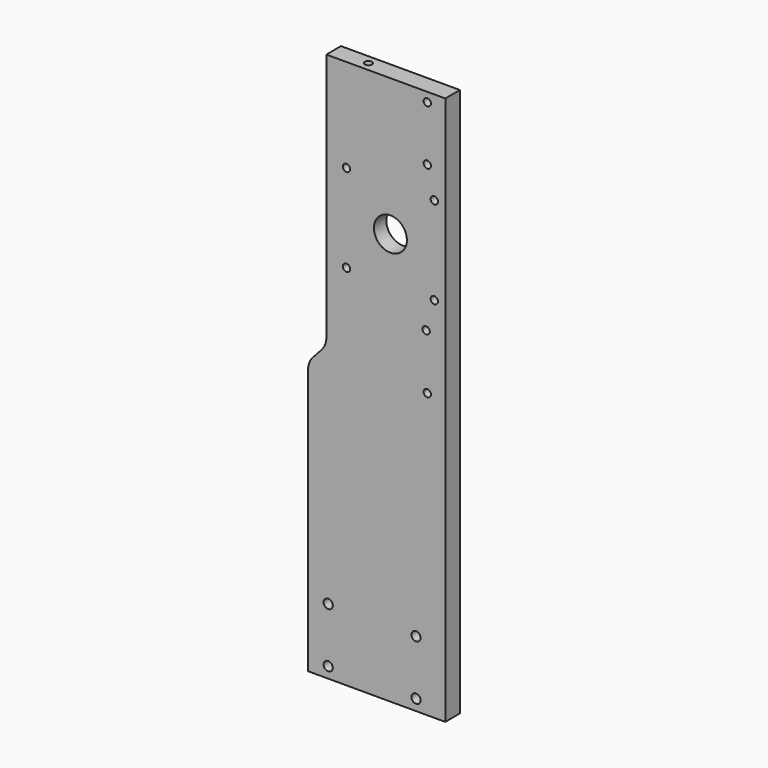
from build123d import *

# Parameters (mm, degrees)
F0_R     = 2.5
F0_R_2   = 2
F0_R_3   = 20
F0_R_4   = 9
F1_DEPTH = 10
F2_R     = 2
F3_DEPTH = 15
F4_DEPTH = 1.5


with BuildPart() as f1:
    # F0 (on Front) → F1 (new body)
    with BuildSketch(Plane.XZ):
        with BuildLine():
            Line((-70, 0), (0, 0))
            Line((0, 0), (0, 199.267949))
            ThreePointArc((0, 199.267949), (-3, 201), (0, 202.732051))
            Line((0, 202.732051), (0, 247.267949))
            ThreePointArc((0, 247.267949), (-3, 249), (0, 250.732051))
            Line((0, 250.732051), (0, 300))
            Line((0, 300), (-60, 300))
            Line((-60, 300), (-60, 163.85171))
            ThreePointArc((-60, 163.85171), (-60.668282, 160.257403), (-62.583808, 157.143498))
            Line((-62.583808, 157.143498), (-67.416192, 151.801108))
            ThreePointArc((-67.416192, 151.801108), (-69.331718, 148.687203), (-70, 145.092897))
            Line((-70, 145.092897), (-70, 0))
        make_face()
        with Locations((-59, 6)):
            Circle(F0_R, mode=Mode.SUBTRACT)
        with Locations((-59, 36)):
            Circle(F0_R, mode=Mode.SUBTRACT)
        with Locations((-11, 6)):
            Circle(F0_R, mode=Mode.SUBTRACT)
        with Locations((-11, 36)):
            Circle(F0_R, mode=Mode.SUBTRACT)
        with Locations((-49, 201)):
            Circle(F0_R_2, mode=Mode.SUBTRACT)
        with Locations((-49, 249)):
            Circle(F0_R_2, mode=Mode.SUBTRACT)
        with Locations((-4.837179, 155)):
            Circle(F0_R_2, mode=Mode.SUBTRACT)
        with Locations((-5.474639, 185)):
            Circle(F0_R_2, mode=Mode.SUBTRACT)
        with Locations((-25, 225)):
            Circle(F0_R_3, mode=Mode.SUBTRACT)
        with Locations((-4.837179, 265)):
            Circle(F0_R_2, mode=Mode.SUBTRACT)
        with Locations((-4.837179, 295)):
            Circle(F0_R_2, mode=Mode.SUBTRACT)
        with Locations((-25, 225)):
            Circle(F0_R_3)
        with Locations((-25, 225)):
            Circle(F0_R_4, mode=Mode.SUBTRACT)
        with BuildLine():
            Line((0, 199.267949), (0, 0))
            Line((0, 0), (5, 0))
            Line((5, 0), (5, 300))
            Line((5, 300), (0, 300))
            Line((0, 300), (0, 250.732051))
            ThreePointArc((0, 250.732051), (0.732051, 250), (1, 249))
            ThreePointArc((1, 249), (0.732051, 248), (0, 247.267949))
            Line((0, 247.267949), (0, 202.732051))
            ThreePointArc((0, 202.732051), (0.732051, 202), (1, 201))
            ThreePointArc((1, 201), (0.732051, 200), (0, 199.267949))
        make_face()
    extrude(amount=F1_DEPTH)

    # F2 (on face) → F3 (cut)
    with BuildSketch(Plane.XY.offset(300)):
        with Locations((-41, -5)):
            Circle(F2_R)
    extrude(amount=-F3_DEPTH, mode=Mode.SUBTRACT)

    # F0 (on Front) → F4 (cut)
    with BuildSketch(Plane.XZ):
        with Locations((-25, 225)):
            Circle(F0_R_3)
        with Locations((-25, 225)):
            Circle(F0_R_4, mode=Mode.SUBTRACT)
    extrude(amount=F4_DEPTH, mode=Mode.SUBTRACT)


solid = f1.part
